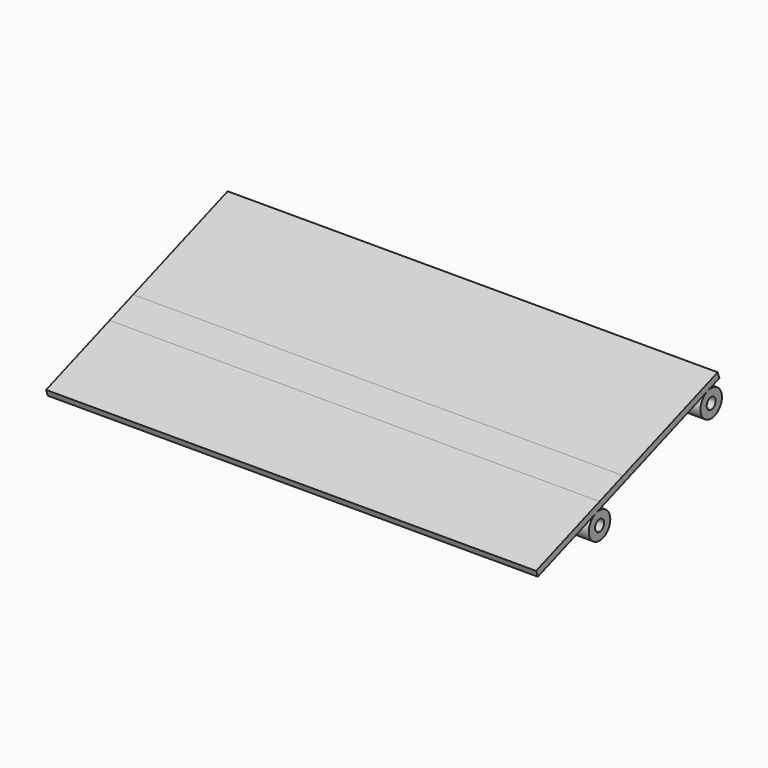
from build123d import *

# Parameters (mm, degrees)
F1_DEPTH = 913


with BuildPart() as f1:
    # F0 (on Right) → F1 (new body)
    with BuildSketch(Plane.YZ):
        with BuildLine():
            ThreePointArc((30.9398380864, -89.3604465055), (23.617507616, -71.6827769758), (5.9398380864, -64.3604465055))
            Line((5.9398380864, -64.3604465055), (5.9398380864, -78.8604465055))
            ThreePointArc((5.9398380864, -78.8604465055), (13.3644592888, -81.935825303), (16.4398380864, -89.3604465055))
            ThreePointArc((16.4398380864, -89.3604465055), (13.3644592888, -96.785067708), (5.9398380864, -99.8604465055))
            Line((5.9398380864, -99.8604465055), (5.9398380864, -114.3604465055))
            ThreePointArc((5.9398380864, -114.3604465055), (23.617507616, -107.0381160352), (30.9398380864, -89.3604465055))
        make_face()
        with BuildLine():
            Line((5.9398380864, -78.8604465055), (5.9398380864, -64.3604465055))
            ThreePointArc((5.9398380864, -64.3604465055), (1.5986338258, -64.7402526483), (-2.6106651512, -65.8681308601))
            ThreePointArc((-2.6106651512, -65.8681308601), (-18.6803557709, -93.7016507661), (5.9398380864, -114.3604465055))
            Line((5.9398380864, -114.3604465055), (5.9398380864, -99.8604465055))
            ThreePointArc((5.9398380864, -99.8604465055), (-4.5601619136, -89.3604465055), (5.9398380864, -78.8604465055))
        make_face()
    extrude(amount=-F1_DEPTH)


with BuildPart() as f1b:
    # F0 (on Right) → F1, piece 2 (new body)
    with BuildSketch(Plane.YZ):
        with BuildLine():
            ThreePointArc((290.9398380864, 5.2718144037), (283.617507616, 22.9494839334), (265.9398380864, 30.2718144037))
            Line((265.9398380864, 30.2718144037), (265.9398380864, 15.7718144037))
            ThreePointArc((265.9398380864, 15.7718144037), (273.3644592888, 12.6964356062), (276.4398380864, 5.2718144037))
            ThreePointArc((276.4398380864, 5.2718144037), (273.3644592888, -2.1528067987), (265.9398380864, -5.2281855963))
            Line((265.9398380864, -5.2281855963), (265.9398380864, -19.7281855963))
            ThreePointArc((265.9398380864, -19.7281855963), (283.617507616, -12.4058551259), (290.9398380864, 5.2718144037))
        make_face()
        with BuildLine():
            ThreePointArc((265.9398380864, 30.2718144037), (261.5986329076, 29.892008099), (257.3893330965, 28.7641294114))
            ThreePointArc((257.3893330965, 28.7641294114), (241.319644391, 0.9306092249), (265.9398380864, -19.7281855963))
            Line((265.9398380864, -19.7281855963), (265.9398380864, -5.2281855963))
            ThreePointArc((265.9398380864, -5.2281855963), (255.4398380864, 5.2718144037), (265.9398380864, 15.7718144037))
            Line((265.9398380864, 15.7718144037), (265.9398380864, 30.2718144037))
        make_face()
    extrude(amount=-F1_DEPTH)


with BuildPart() as f1c:
    # F0 (on Right) → F1, piece 3 (new body)
    with BuildSketch(Plane.YZ):
        Polygon((265.9398380864, 44.6463919853), (60.9398380864, -29.9675060392), (60.9398380864, -42.737639309), (257.3893330965, 28.7641294114), (265.9398380864, 31.8762587156), align=None)
        Polygon((60.9398380864, -29.9675060392), (5.9398380864, -49.9858689239), (5.9398380864, -62.7560021936), (60.9398380864, -42.737639309), align=None)
        Polygon((5.9398380864, -62.7560021936), (5.9398380864, -49.9858689239), (-141.8729281845, -103.785316091), (-137.7686864646, -115.0616275405), (-2.6106651512, -65.8681308601), align=None)
        Polygon((280.9887511692, 50.1237484055), (265.9398380864, 44.6463919853), (265.9398380864, 31.8762587156), (285.0929928891, 38.8474369561), align=None)
    extrude(amount=-F1_DEPTH)


solid = Compound([f1.part, f1b.part, f1c.part])
